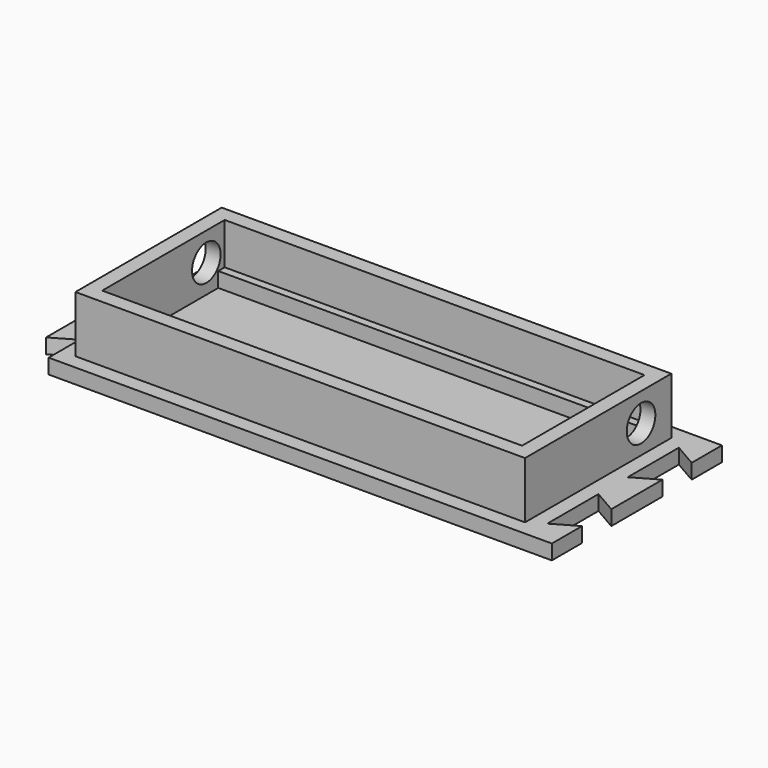
from build123d import *

# Parameters (mm, degrees)
SKETCH006_W     = 70.5
SKETCH006_H     = 25.7
PAD003_DEPTH    = 9.5
THICKNESS001_T  = 2.5
SKETCH007_R     = 3
POCKET002_DEPTH = 75.501
SKETCH046_W     = 70.5
SKETCH046_H     = 1.5
PAD039_DEPTH    = 2.5
PAD002_DEPTH    = 2.5


with BuildPart() as body002:
    # Sketch006 → Pad003 (new body)
    with BuildSketch(Plane.XY):
        with Locations((0, -48)):
            Rectangle(SKETCH006_W, SKETCH006_H)
    extrude(amount=PAD003_DEPTH)

    # Thickness001
    thickness001_openings = [body002.faces().sort_by_distance(p)[0] for p in [
        (0, -48, 9.5),
        (0, -48, 0),
    ]]
    offset(amount=THICKNESS001_T, openings=thickness001_openings, kind=Kind.INTERSECTION)

    # Sketch007 (on Face6 of Thickness001) → Pocket002 (cut, through all)
    with BuildSketch(Plane(origin=(-37.75, 0, 0), x_dir=(0, -1, 0), z_dir=(-1, 0, 0))):
        with Locations((39, 4.75)):
            Circle(SKETCH007_R)
    extrude(amount=-POCKET002_DEPTH, mode=Mode.SUBTRACT)

    # Sketch046 → Pad039 (join)
    with BuildSketch(Plane.XY):
        with Locations((0, -35.75)):
            Rectangle(SKETCH046_W, SKETCH046_H)
    extrude(amount=PAD039_DEPTH)


with BuildPart() as body002_1:
    # Body002 placement: moved
    add(body002.part.moved(Location((84.5, 36.85, 0))))


with BuildPart() as middle:
    # Sketch005 → Pad002 (new body)
    with BuildSketch(Plane(origin=(0, 0, 0), x_dir=(1, 0, 0), z_dir=(0, 0, -1))):
        Polygon((-40.25, 30.15), (40.25, 30.15), (44.25, 30.15), (44.25, 36.5), (40.251921, 34.191708), (40.251921, 44.936467), (44.25, 42.628175), (44.25, 53.372934), (40.251921, 51.064642), (40.251921, 61.809401), (44.251921, 59.5), (44.251921, 65.85), (40.251921, 65.85), (-40.248079, 65.85), (-40.248079, 59.35), (-44.098079, 61.572799), (-44.098079, 51.293867), (-40.248079, 53.516665), (-40.248079, 42.486665), (-44.1, 44.706133), (-44.1, 34.427201), (-40.25, 36.65), align=None)
    extrude(amount=PAD002_DEPTH)


with BuildPart() as middle_1:
    # Body001 placement: moved
    add(middle.part.moved(Location((84.5, 36.85, 0))))

    # Fusion003: union Body002
    add(body002_1.part)


with BuildPart() as middle_2:
    # Fusion003 placement: moved
    add(middle_1.part.moved(Location((3, 39, 0))))


solid = middle_2.part
